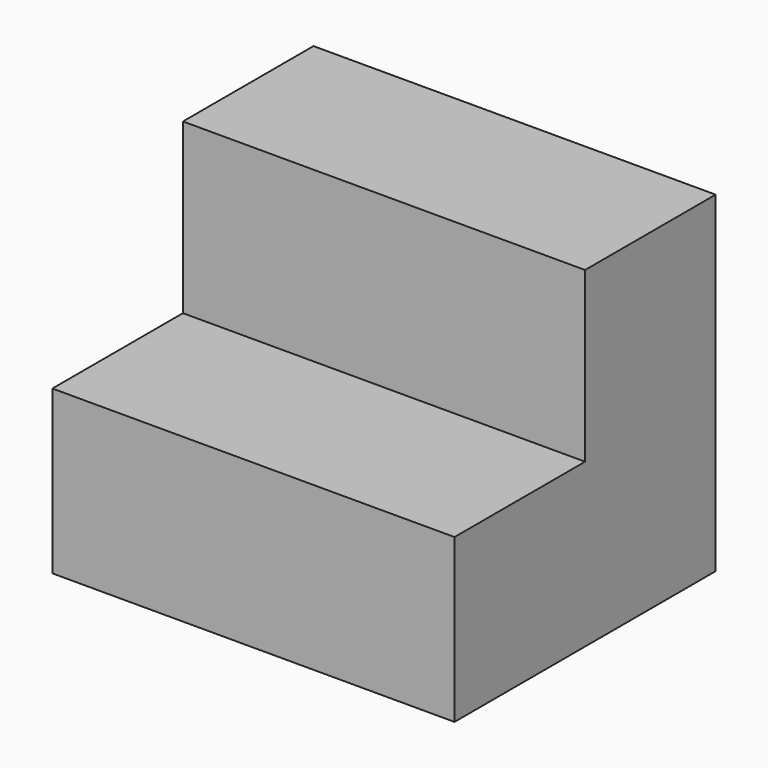
from build123d import *

# Parameters (mm, degrees)
F0_W     = 46.9405390322
F0_H     = 38.6983044446
F1_DEPTH = 38.1
F3_W     = 19.05
F3_H     = 19.7009555995
F4_DEPTH = 25.4
F5_DEPTH = 50.8


with BuildPart() as f1:
    # F0 (on Front) → F1 (new body)
    with BuildSketch(Plane.XZ):
        with Locations((23.4702695161, 19.3491522223)):
            Rectangle(F0_W, F0_H)
    extrude(amount=F1_DEPTH)

    # F3 (on face) → F4 (cut)
    with BuildSketch(Plane(origin=(0, 0, 0), x_dir=(0, -1, 0), z_dir=(-1, 0, 0))):
        with Locations((28.575, 28.8478266448)):
            Rectangle(F3_W, F3_H)
    extrude(amount=-F4_DEPTH, mode=Mode.SUBTRACT)

    # F5 (cut): a face of the model
    f5_faces = [f1.faces().sort_by_distance(p)[0] for p in [
        (25.4, -28.575, 28.8478266448),
    ]]
    extrude(f5_faces, amount=-F5_DEPTH, mode=Mode.SUBTRACT)


solid = f1.part
